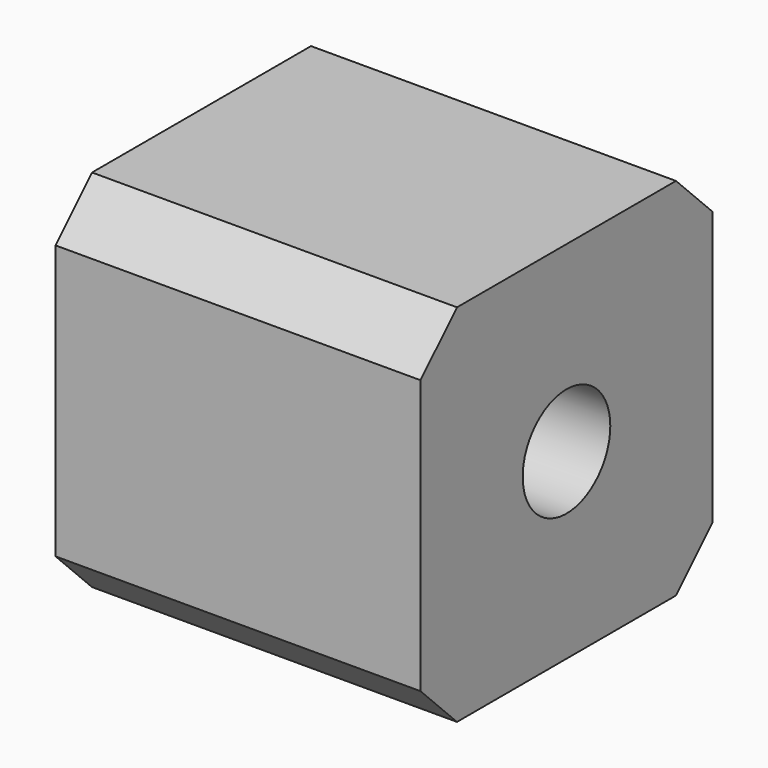
from build123d import *

# Parameters (mm, degrees)
F0_W     = 40
F0_H     = 40
F0_R     = 6
F1_DEPTH = 40
F2_SIZE  = 5


with BuildPart() as f1:
    # F0 (on Right) → F1 (new body)
    with BuildSketch(Plane.YZ):
        Rectangle(F0_W, F0_H)
        Circle(F0_R, mode=Mode.SUBTRACT)
    extrude(amount=-F1_DEPTH)

    # F2
    f2_edges = [f1.edges().sort_by_distance(p)[0] for p in [
        (-20, -20, 20),
        (-20, 20, 20),
        (-20, -20, -20),
        (-20, 20, -20),
    ]]
    chamfer(f2_edges, length=F2_SIZE)


solid = f1.part
